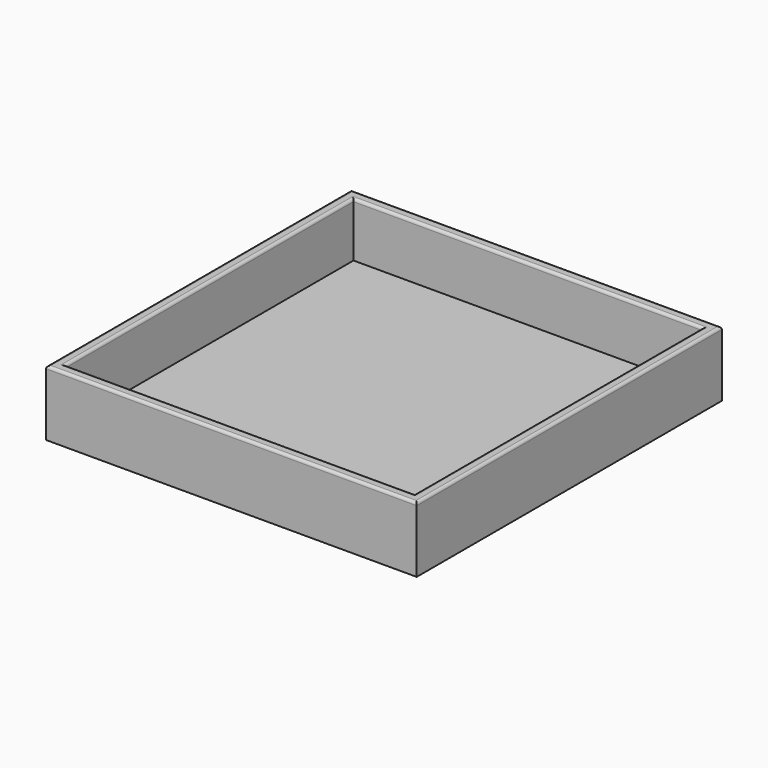
from build123d import *

# Parameters (mm, degrees)
F0_W     = 68
F0_H     = 70
F0_W_2   = 64
F0_H_2   = 66
F1_DEPTH = 12
F2_R     = 0.5
F3_W     = 64
F3_H     = 2
F4_DEPTH = 66


with BuildPart() as f1:
    # F0 (on Top) → F1 (new body)
    with BuildSketch(Plane.XY):
        Rectangle(F0_W, F0_H)
        Rectangle(F0_W_2, F0_H_2, mode=Mode.SUBTRACT)
    extrude(amount=F1_DEPTH)

    # F2
    f2_edges = [f1.edges().sort_by_distance(p)[0] for p in [
        (-34, 0, 12),
        (0, -35, 12),
        (0, 35, 12),
        (34, 0, 12),
        (-32, 0, 12),
        (0, 33, 12),
        (32, 0, 12),
        (0, -33, 12),
    ]]
    fillet(f2_edges, radius=F2_R)

    # F3 (on face) → F4 (join, through all)
    with BuildSketch(Plane.XZ.offset(-33)):
        with Locations((0, 1)):
            Rectangle(F3_W, F3_H)
    extrude(amount=F4_DEPTH)


solid = f1.part
